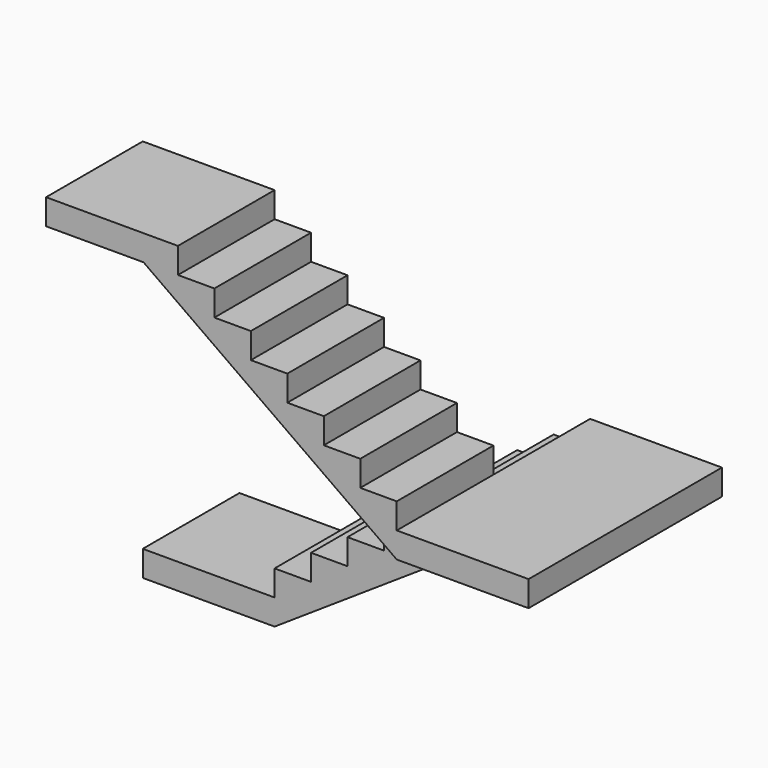
from build123d import *

# Parameters (mm, degrees)
F1_DEPTH = 69.85
F2_DEPTH = 69.85


with BuildPart() as f1:
    # F0 (on Front) → F1 (new body)
    with BuildSketch(Plane.XZ):
        Polygon((202.692, 103.6574), (232.104301, 103.6574), (278.892, 103.6574), (278.892, 118.4656), (202.692, 118.4656), align=None)
        Polygon((0, 14.8082), (0, 0), (76.2, 0), (232.104301, 103.6574), (202.692, 103.6574), (181.61, 103.6574), (181.61, 88.8492), (160.528, 88.8492), (160.528, 74.041), (139.446, 74.041), (139.446, 59.2328), (118.364, 59.2328), (118.364, 44.4246), (97.282, 44.4246), (97.282, 29.6164), (76.2, 29.6164), (76.2, 14.8082), align=None)
    extrude(amount=-F1_DEPTH)

    # F0 (on Front) → F2 (join)
    with BuildSketch(Plane.XZ):
        Polygon((56.329828, 207.3148), (202.692, 103.6574), (202.692, 118.4656), (202.692, 133.2738), (181.61, 133.2738), (181.61, 148.082), (160.528, 148.082), (160.528, 162.8902), (139.446, 162.8902), (139.446, 177.6984), (118.364, 177.6984), (118.364, 192.5066), (97.282, 192.5066), (97.282, 207.3148), (76.2, 207.3148), (76.2, 222.123), (0, 222.123), (0, 207.3148), align=None)
        Polygon((202.692, 103.6574), (232.104301, 103.6574), (278.892, 103.6574), (278.892, 118.4656), (202.692, 118.4656), align=None)
    extrude(amount=F2_DEPTH)


solid = f1.part
